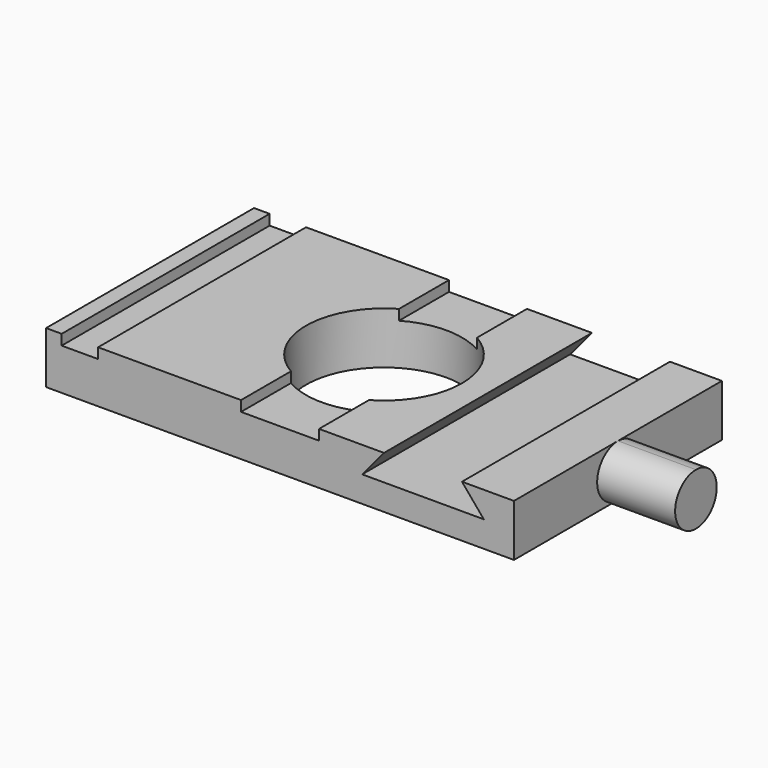
from build123d import *

# Parameters (mm, degrees)
F0_W     = 89.999996
F0_H     = 50
F0_R     = 15
F1_DEPTH = 10
F2_W     = 7
F2_H     = 50
F3_DEPTH = 2
F5_DEPTH = 50.001
F7_DEPTH = 15


with BuildPart() as f1:
    # F0 (on Top) → F1 (new body)
    with BuildSketch(Plane.XY):
        Rectangle(F0_W, F0_H)
        Circle(F0_R, mode=Mode.SUBTRACT)
    extrude(amount=F1_DEPTH)

    # F2 (on face) → F3 (cut)
    with BuildSketch(Plane.XY.offset(10)):
        with Locations((-38.499998, 0)):
            Rectangle(F2_W, F2_H)
        with BuildLine():
            Line((-7.5, -12.990381), (-7.5, -25))
            Line((-7.5, -25), (7.5, -25))
            Line((7.5, -25), (7.5, -12.990381))
            ThreePointArc((7.5, -12.990381), (0, -15), (-7.5, -12.990381))
        make_face()
        with BuildLine():
            Line((7.5, 25), (-7.5, 25))
            Line((-7.5, 25), (-7.5, 12.990381))
            ThreePointArc((-7.5, 12.990381), (0, 15), (7.5, 12.990381))
            Line((7.5, 12.990381), (7.5, 25))
        make_face()
    extrude(amount=-F3_DEPTH, mode=Mode.SUBTRACT)

    # F4 (on face) → F5 (cut, through all)
    with BuildSketch(Plane.XZ.offset(25)):
        Polygon((35, 10), (20, 10), (15.804502, 5), (39.195498, 5), align=None)
    extrude(amount=-F5_DEPTH, mode=Mode.SUBTRACT)

    # F6 (on face) → F7 (join)
    with BuildSketch(Plane.YZ.offset(44.999998)):
        with BuildLine():
            ThreePointArc((0, 0), (3.535534, 1.464466), (5, 5))
            ThreePointArc((5, 5), (3.535534, 8.535534), (0, 10))
            ThreePointArc((0, 10), (-5, 5), (0, 0))
        make_face()
    extrude(amount=F7_DEPTH)


solid = f1.part
